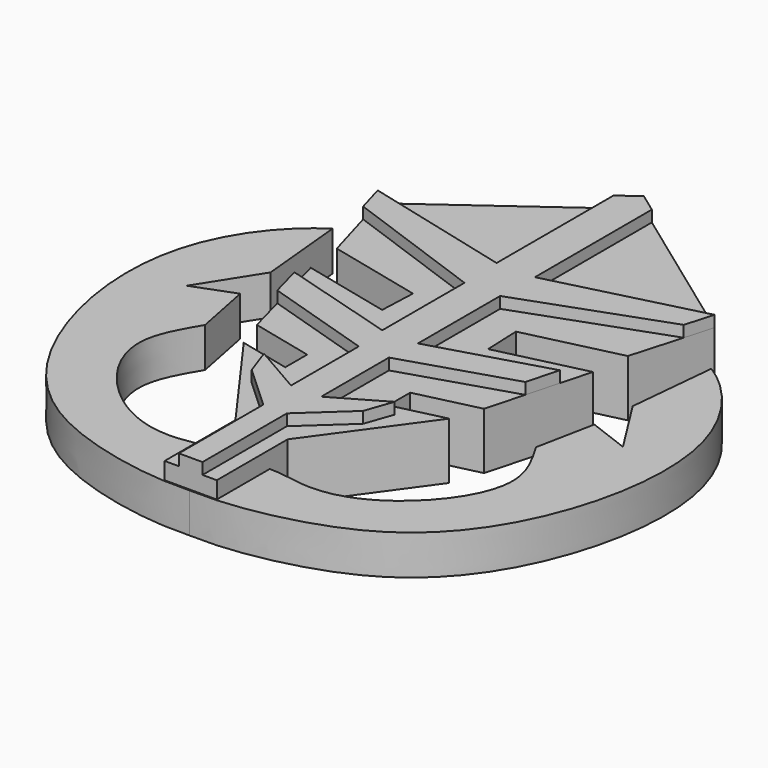
from build123d import *

# Parameters (mm, degrees)
F1_DEPTH = 2.54
F3_DEPTH = 0.508
F5_DEPTH = 1.778


with BuildPart() as f1:
    # F0 (on Top) → F1 (new body)
    with BuildSketch(Plane.XY):
        Polygon((7.5537175871, 7.222705055), (0, 12.7), (-7.5537175871, 7.222705055), (-6.5243692948, 3.6444937882), (-2.3092337336, 2.6433991272), (-2.3754354034, 1.0000162736), (-6.3273296691, 1.9385911291), (-5.0937847926, -2.6240828397), (-2.3092337336, -3.2854136933), (-2.3092337336, -4.5144362623), (-4.6072022218, -3.9686687653), (-1.1698224965, -8.7301628115), (-1.1698224965, -12.7), (0, -12.7), (1.1698224965, -12.7), (1.1698224965, -8.7301628115), (4.6072022218, -3.9686687653), (2.3092337336, -4.5144362623), (2.3092337336, -3.2854136933), (5.0937847926, -2.6240828397), (6.3273296691, 1.9385911291), (2.3754354034, 1.0000162736), (2.3092337336, 2.6433991272), (6.5243692948, 3.6444937882), align=None)
    extrude(amount=F1_DEPTH)

    # F2 (on face) → F3 (join)
    with BuildSketch(Plane.XY.offset(2.54)):
        Polygon((-0.8598621353, 5.5201994255), (-7.5537175871, 7.222705055), (-7.1881001843, 5.951749131), (-0.7990982267, 3.6444937882), (-0.7990982267, -0.9626591927), (-5.9528638441, 0.5535053454), (-5.5610737687, -0.8956599119), (-0.676086056, -2.4337439895), (-0.676086056, -6.2303695025), (-2.9274653643, -4.9321902916), (-2.4932585657, -6.1622643843), (-0.5290653789, -7.9689593986), (-0.5290653789, -12.7), (0, -12.7), (0, 12.7), (-0.8598621353, 12.0765032287), align=None)
        Polygon((0.8549828016, 12.0800412944), (0, 12.7), (0, -12.7), (0.5290653789, -12.7), (0.5290653789, -7.9689593986), (2.4932585657, -6.1622643843), (2.9274653643, -4.9321902916), (0.676086056, -6.2303695025), (0.676086056, -2.4337439895), (5.5610737687, -0.8956599119), (5.9528638441, 0.5535053454), (0.7990982267, -0.9626591927), (0.7990982267, 3.6444937882), (7.1881001843, 5.951749131), (7.5537175871, 7.222705055), (0.8598621353, 5.5201994255), align=None)
    extrude(amount=F3_DEPTH)

    # F4 (on Top) → F5 (join)
    with BuildSketch(Plane.XY):
        with BuildLine():
            Line((0, -10.949806289), (0, -12.7608785406))
            add(Edge.make_bspline(
                [(0, -12.7608785406), (0.0773443542, -11.9772860283), (0.0714068119, -11.3888440065), (0, -10.949806289)],
                knots=[0, 0, 0, 0, 0.052703674, 0.052703674, 0.052703674, 0.052703674], degree=3))
        make_face()
        with BuildLine():
            add(Edge.make_bspline(
                [(0, -12.7608785406), (-0.0773443542, -11.9772860283), (-0.0714068119, -11.3888440065), (0, -10.949806289)],
                knots=[0, 0, 0, 0, 0.052703674, 0.052703674, 0.052703674, 0.052703674], degree=3))
            Line((0, -12.7608785406), (0, -10.949806289))
        make_face()
        with BuildLine():
            add(Edge.make_bspline(
                [(0, -12.7608785406), (-0.5616742186, -12.770440741), (-2.1205421024, -12.790638617), (-7.9874049211, -11.4827046144), (-11.7723741699, -5.9537379696), (-12.5908554196, 1.5376936676), (-9.8928115736, 4.9884440795), (-8.4962220863, 5.8655152097)],
                knots=[0, 0, 0, 0, 0.1246508441, 0.3333749684, 0.5579268, 0.7940921964, 1, 1, 1, 1], degree=3))
            add(Edge.make_bspline(
                [(0, -12.7608785406), (-0.0773443542, -11.9772860283), (-0.0714068119, -11.3888440065), (0, -10.949806289)],
                knots=[0, 0, 0, 0, 0.052703674, 0.052703674, 0.052703674, 0.052703674], degree=3))
            add(Edge.make_bspline(
                [(0, -10.949806289), (-0.2888992842, -9.1735376255), (-3.443955699, -10.7255806784), (-7.2608486379, -8.3705425095), (-8.8808301689, -5.0786594093), (-7.8867861812, -3.4054211415), (-7.4195610359, -2.6202637237)],
                knots=[0.052703674, 0.052703674, 0.052703674, 0.052703674, 0.2659333829, 0.547176016, 0.7858478386, 1, 1, 1, 1], degree=3))
            Line((-7.4195610359, -2.6202637237), (-7.939890027, 0))
            Line((-7.939890027, 0), (-9.779876098, -0.6970435497))
            Line((-9.779876098, -0.6970435497), (-8.118913509, 1.92552933))
            Line((-8.118913509, 1.92552933), (-8.4962220863, 5.8655152097))
        make_face()
        with BuildLine():
            add(Edge.make_bspline(
                [(0, -12.7608785406), (0.0773443542, -11.9772860283), (0.0714068119, -11.3888440065), (0, -10.949806289)],
                knots=[0, 0, 0, 0, 0.052703674, 0.052703674, 0.052703674, 0.052703674], degree=3))
            add(Edge.make_bspline(
                [(0, -12.7608785406), (0.5616742186, -12.770440741), (2.1205421024, -12.790638617), (7.9874049211, -11.4827046144), (11.7723741699, -5.9537379696), (12.5908554196, 1.5376936676), (9.8928115736, 4.9884440795), (8.4962220863, 5.8655152097)],
                knots=[0, 0, 0, 0, 0.1246508441, 0.3333749684, 0.5579268, 0.7940921964, 1, 1, 1, 1], degree=3))
            Line((8.4962220863, 5.8655152097), (8.118913509, 1.92552933))
            Line((8.118913509, 1.92552933), (9.779876098, -0.6970435497))
            Line((9.779876098, -0.6970435497), (7.939890027, 0))
            Line((7.939890027, 0), (7.4195610359, -2.6202637237))
            add(Edge.make_bspline(
                [(0, -10.949806289), (0.2888992842, -9.1735376255), (3.443955699, -10.7255806784), (7.2608486379, -8.3705425095), (8.8808301689, -5.0786594093), (7.8867861812, -3.4054211415), (7.4195610359, -2.6202637237)],
                knots=[0.052703674, 0.052703674, 0.052703674, 0.052703674, 0.2659333829, 0.547176016, 0.7858478386, 1, 1, 1, 1], degree=3))
        make_face()
    extrude(amount=F5_DEPTH)


solid = f1.part
